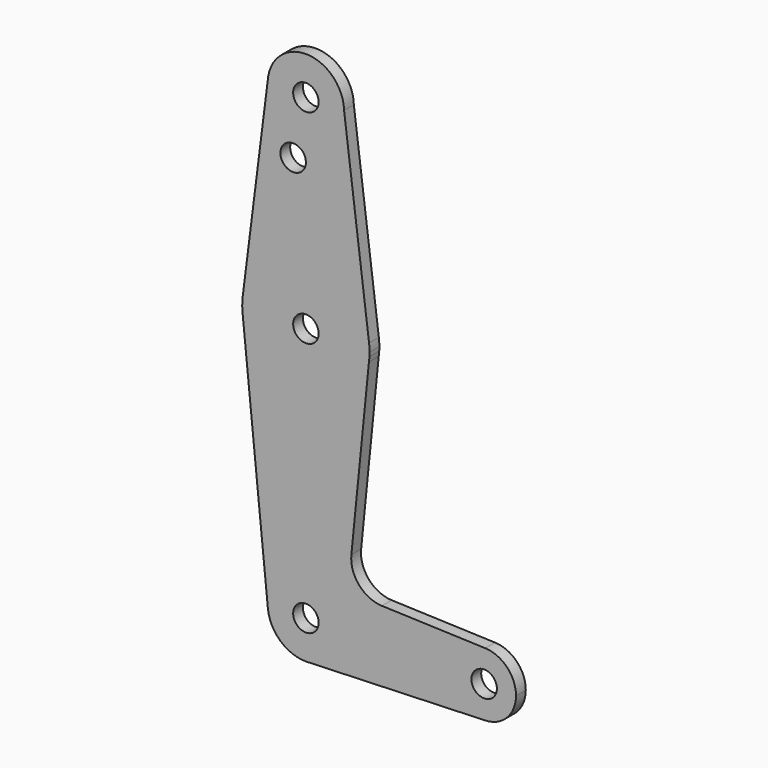
from build123d import *

# Parameters (mm, degrees)
F0_R     = 3.175
F1_DEPTH = 3.048


with BuildPart() as f1:
    # F0 (on Front) → F1 (new body)
    with BuildSketch(Plane.XZ):
        with BuildLine():
            ThreePointArc((0.677344, -9.500886), (6.970557, -6.491299), (9.525, 0))
            ThreePointArc((9.525, 0), (-0.476605, 9.513069), (-9.477304, -0.952017))
            ThreePointArc((-9.477304, -0.952017), (-6.389744, -7.063766), (0, -9.525))
            Line((0, -9.525), (0.677344, -9.500886))
        make_face()
        Circle(F0_R, mode=Mode.SUBTRACT)
        with BuildLine():
            ThreePointArc((-9.477304, -0.952017), (-0.476605, 9.513069), (9.525, 0))
            ThreePointArc((9.525, 0), (6.970557, -6.491299), (0.677344, -9.500886))
            Line((0.677344, -9.500886), (44.732405, -7.932475))
            ThreePointArc((44.732405, -7.932475), (36.5125, 0), (44.732405, 7.932475))
            Line((44.732405, 7.932475), (18.964995, 8.849824))
            ThreePointArc((18.964995, 8.849824), (13.258338, 11.567047), (11.337361, 17.588598))
            Line((11.337361, 17.588598), (15.724745, 61.321003))
            ThreePointArc((15.724745, 61.321003), (-0.138323, 47.625603), (-15.760328, 61.595351))
            Line((-15.760328, 61.595351), (-9.477304, -0.952017))
        make_face()
        with BuildLine():
            ThreePointArc((0, -9.525), (0.338886, -9.51897), (0.677344, -9.500886))
            Line((0.677344, -9.500886), (0, -9.525))
        make_face()
        with BuildLine():
            Line((-15.824271, 62.231905), (-15.760328, 61.595351))
            ThreePointArc((-15.760328, 61.595351), (-0.138323, 47.625603), (15.724745, 61.321003))
            Line((15.724745, 61.321003), (15.844219, 62.511891))
            ThreePointArc((15.844219, 62.511891), (15.867303, 63.005706), (15.875, 63.5))
            ThreePointArc((15.875, 63.5), (15.843336, 64.502157), (15.748472, 65.500316))
            ThreePointArc((15.748472, 65.500316), (-0.006004, 79.374999), (-15.74998, 65.488402))
            ThreePointArc((-15.74998, 65.488402), (-15.870871, 63.862064), (-15.824271, 62.231905))
        make_face()
        with Locations((0, 63.5)):
            Circle(F0_R, mode=Mode.SUBTRACT)
        with BuildLine():
            ThreePointArc((-15.824271, 62.231905), (-15.795507, 61.913306), (-15.760328, 61.595351))
            Line((-15.760328, 61.595351), (-15.824271, 62.231905))
        make_face()
        with BuildLine():
            ThreePointArc((44.732405, 7.932475), (36.5125, 0), (44.732405, -7.932475))
            ThreePointArc((44.732405, -7.932475), (50.161633, -5.51191), (52.3875, 0))
            ThreePointArc((52.3875, 0), (50.161633, 5.51191), (44.732405, 7.932475))
        make_face()
        with Locations((44.45, 0)):
            Circle(F0_R, mode=Mode.SUBTRACT)
        with BuildLine():
            Line((15.844219, 62.511891), (15.724745, 61.321003))
            ThreePointArc((15.724745, 61.321003), (15.795709, 61.915321), (15.844219, 62.511891))
        make_face()
        with BuildLine():
            Line((-9.499243, 115.000002), (-15.74998, 65.488402))
            ThreePointArc((-15.74998, 65.488402), (-0.006004, 79.374999), (15.748472, 65.500316))
            Line((15.748472, 65.500316), (9.522524, 114.517158))
            ThreePointArc((9.522524, 114.517158), (9.524381, 114.408586), (9.525, 114.3))
            ThreePointArc((9.525, 114.3), (-0.350238, 104.781441), (-9.499243, 115.000002))
        make_face()
        with Locations((-3.175, 100.0252)):
            Circle(F0_R, mode=Mode.SUBTRACT)
        with BuildLine():
            Line((-9.37516, 115.982852), (-9.499243, 115.000002))
            ThreePointArc((-9.499243, 115.000002), (-0.350238, 104.781441), (9.525, 114.3))
            ThreePointArc((9.525, 114.3), (9.524381, 114.408586), (9.522524, 114.517158))
            ThreePointArc((9.522524, 114.517158), (0.736542, 123.79648), (-9.37516, 115.982852))
        make_face()
        with Locations((0, 114.3)):
            Circle(F0_R, mode=Mode.SUBTRACT)
        with BuildLine():
            ThreePointArc((-9.37516, 115.982852), (-9.449988, 115.493041), (-9.499243, 115.000002))
            Line((-9.499243, 115.000002), (-9.37516, 115.982852))
        make_face()
    extrude(amount=F1_DEPTH)


solid = f1.part
